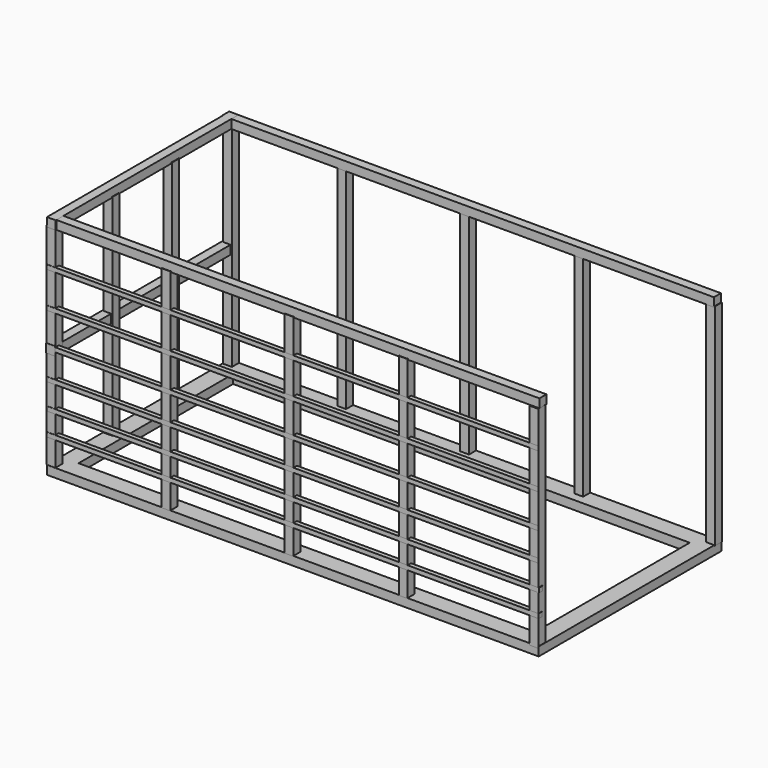
from build123d import *

# Parameters (mm, degrees)
F0_W      = 2844.8
F0_H      = 1320.8
F1_DEPTH  = 50.8
F2_T      = -101.6
F3_W      = 50.8
F3_H      = 1219.2
F4_DEPTH  = 50.8
F5_T      = -2.54
F23_W     = 2844.8
F23_H     = 50.8
F24_DEPTH = 50.8
F27_W     = 50.8
F27_H     = 1320.8
F28_DEPTH = 50.8
F31_W     = 2844.8
F31_H     = 25.4
F32_DEPTH = 25.4


with BuildPart() as f1:
    # F0 (on Top) → F1 (new body)
    with BuildSketch(Plane.XY):
        with Locations((17.4122452736, 88.9616583399)):
            Rectangle(F0_W, F0_H)
    extrude(amount=F1_DEPTH)

    # F2
    f2_openings = [f1.faces().sort_by_distance(p)[0] for p in [
        (17.412245, 88.961658, 50.8),
        (17.412245, 88.961658, 0),
    ]]
    offset(amount=F2_T, openings=f2_openings)


with BuildPart() as f4:
    # F3 (on Front) → F4 (new body)
    with BuildSketch(Plane.XZ):
        with Locations((-1490.3908665703, 185.7293378562)):
            Rectangle(F3_W, F3_H)
    extrude(amount=F4_DEPTH)

    # F5
    f5_openings = [f4.faces().sort_by_distance(p)[0] for p in [
        (-1490.390867, -25.4, 795.329338),
        (-1490.390867, -25.4, -423.870662),
    ]]
    offset(amount=F5_T, openings=f5_openings)


with BuildPart() as f6_1:
    # F6: copy of F4
    add(f4.part.moved(Location((114.3, 749.3, 472.44))))


with BuildPart() as f4_1:
    # F7: moved
    add(f4.part.moved(Location((50.8, 0, 0))))


with BuildPart() as f4_2:
    # F8: moved
    add(f4_1.part.moved(Location((76.2, -508, 457.2))))


with BuildPart() as f9_1:
    # F9: copy of F4
    add(f4_2.part.moved(Location((2768.6, 0, 0))))


with BuildPart() as f10_1:
    # F10: copy of F6_1
    add(f6_1.part.moved(Location((2794, 0, 0))))


with BuildPart() as f11_1:
    # F11: copy of F6_1
    add(f6_1.part.moved(Location((660.4, 0, 0))))


with BuildPart() as f12_1:
    # F12: copy of F6_1
    add(f6_1.part.moved(Location((2032, 0, 0))))


with BuildPart() as f13_1:
    # F13: copy of F6_1
    add(f6_1.part.moved(Location((1371.6, 0, 0))))


with BuildPart() as f14_1:
    # F14: copy of F6_1
    add(f6_1.part.moved(Location((660.4, -1270, 0))))


with BuildPart() as f15_1:
    # F15: copy of F6_1
    add(f6_1.part.moved(Location((1371.6, -1270, 0))))


with BuildPart() as f16_1:
    # F16: copy of F6_1
    add(f6_1.part.moved(Location((2032, -1270, 0))))


with BuildPart() as f17_1:
    # F17: copy of F6_1
    add(f6_1.part.moved(Location((0, -431.8, 0))))


with BuildPart() as f18_1:
    # F18: copy of F6_1
    add(f6_1.part.moved(Location((0, -863.6, 0))))


with BuildPart() as f4_3:
    # F19: moved
    add(f4_2.part.moved(Location((-12.7, 0, 17.78))))


with BuildPart() as f9_1_1:
    # F20: moved
    add(f9_1.part.moved(Location((10.16, 0, 7.62))))


with BuildPart() as f9_1_2:
    # F21: moved
    add(f9_1_1.part.moved(Location((-2.54, -12.7, 0))))


with BuildPart() as f4_4:
    # F22: moved
    add(f4_3.part.moved(Location((-5.842, -11.684, 0))))


with BuildPart() as f24:
    # F23 (on Top) → F24 (new body)
    with BuildSketch(Plane.XY):
        with Locations((20.7413434982, -750.1374780487)):
            Rectangle(F23_W, F23_H)
    extrude(amount=F24_DEPTH)


with BuildPart() as f24_1:
    # F25: moved
    add(f24.part.moved(Location((-2.54, 208.28, 1262.38))))


with BuildPart() as f26_1:
    # F26: copy of F24
    add(f24_1.part.moved(Location((-2.54, 1264.92, 0))))


with BuildPart() as f28:
    # F27 (on Top) → F28 (new body)
    with BuildSketch(Plane.XY):
        with Locations((-1508.5209541788, 93.6768651009)):
            Rectangle(F27_W, F27_H)
    extrude(amount=F28_DEPTH)


with BuildPart() as f28_1:
    # F29: moved
    add(f28.part.moved(Location((129.54, -5.08, 1262.38))))


with BuildPart() as f30_1:
    # F30: copy of F28
    add(f28_1.part.moved(Location((-5.08, 0, -642.62))))


with BuildPart() as f32:
    # F31 (on Front) → F32 (new body)
    with BuildSketch(Plane.XZ):
        with Locations((7.0047974586, -223.8926060067)):
            Rectangle(F31_W, F31_H)
    extrude(amount=F32_DEPTH)


with BuildPart() as f32_1:
    # F33: moved
    add(f32.part.moved(Location((10.16, -546.1, 429.26))))


with BuildPart() as f34_1:
    # F34: copy of F32
    add(f32_1.part.moved(Location((2.54, 0, 132.08))))


with BuildPart() as f35_1:
    # F35: copy of F32
    add(f32_1.part.moved(Location((-2.54, 0, 281.94))))


with BuildPart() as f36_1:
    # F36: copy of F32
    add(f32_1.part.moved(Location((-2.54, 0, 447.04))))


with BuildPart() as f37_1:
    # F37: copy of F32
    add(f32_1.part.moved(Location((-2.54, 0, 645.16))))


with BuildPart() as f38_1:
    # F38: copy of F32
    add(f32_1.part.moved(Location((-2.54, 0, 853.44))))


solid = Compound([f1.part, f6_1.part, f10_1.part, f11_1.part, f12_1.part, f13_1.part, f14_1.part, f15_1.part, f16_1.part, f17_1.part, f18_1.part, f9_1_2.part, f4_4.part, f24_1.part, f26_1.part, f28_1.part, f30_1.part, f32_1.part, f34_1.part, f35_1.part, f36_1.part, f37_1.part, f38_1.part])
